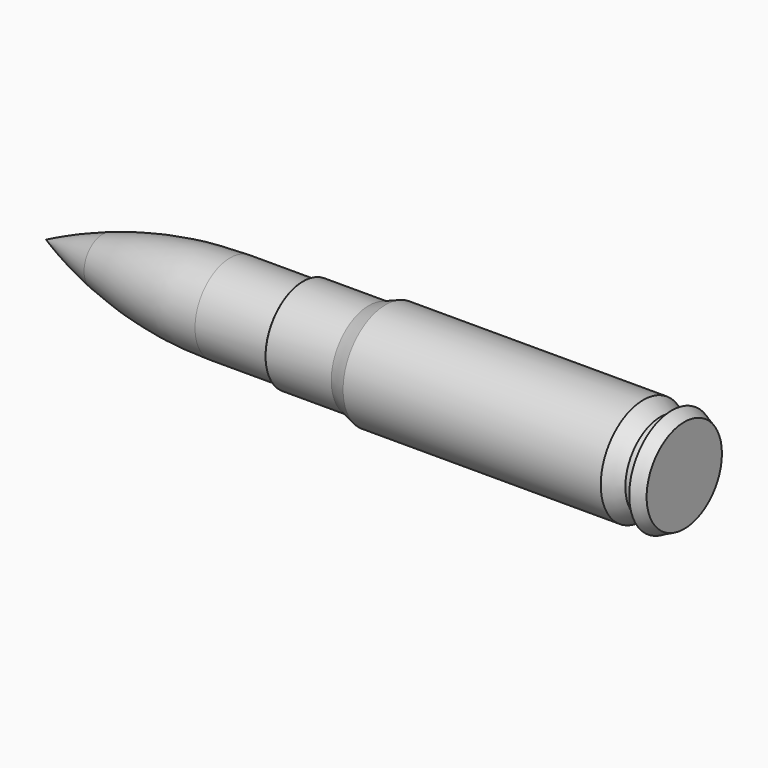
from build123d import *


with BuildPart() as f1:
    # F0 (on Top) → F1 (revolve)
    with BuildSketch(Plane.XY):
        with BuildLine():
            Line((-56.9976, 0), (0, 0))
            Line((0, 0), (0, 4.2037))
            Line((0, 4.2037), (-1.1176, 4.7498))
            Line((-1.1176, 4.7498), (-1.1176, 3.9116))
            Line((-1.1176, 3.9116), (-2.1336, 3.9116))
            Line((-2.1336, 3.9116), (-3.6576, 4.7498))
            Line((-3.6576, 4.7498), (-26.67, 4.7498))
            Line((-26.67, 4.7498), (-28.170397, 4.2037))
            Line((-28.170397, 4.2037), (-34.012397, 4.2037))
            ThreePointArc((-34.012397, 4.2037), (-34.048318, 4.188821), (-34.063197, 4.1529))
            Line((-34.063197, 4.1529), (-34.063197, 3.9624))
            ThreePointArc((-34.063197, 3.9624), (-34.078076, 3.926479), (-34.113997, 3.9116))
            Line((-34.113997, 3.9116), (-40.57008, 3.9116))
            ThreePointArc((-40.57008, 3.9116), (-46.328179, 3.45221), (-51.940601, 2.085661))
            ThreePointArc((-51.940601, 2.085661), (-54.507037, 1.134813), (-56.9976, 0))
        make_face()
    revolve(axis=Axis((-35.08395, 0, 0), (-1, 0, 0)))


solid = f1.part
